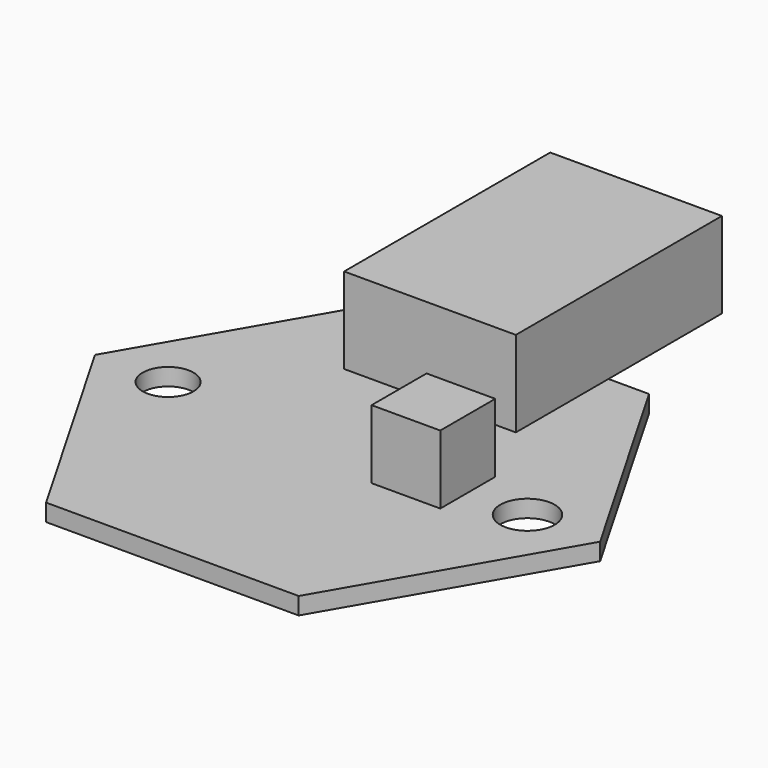
from build123d import *

# Parameters (mm, degrees)
SKETCH_R     = 1.480824
SKETCH_R_2   = 1.582629
PAD_DEPTH    = 1
BOX_W        = 10
BOX_H        = 15
BOX_DEPTH    = 5
BOX001_W     = 4
BOX001_H     = 4
BOX001_DEPTH = 4


with BuildPart() as body_hexagon:
    # Sketch → Pad (new body)
    with BuildSketch(Plane.XY):
        Polygon((7.363772, 12.739325), (-7.350693, 12.746876), (-14.714465, 0.007551), (-7.363772, -12.739325), (7.350693, -12.746876), (14.714465, -0.007551), align=None)
        with Locations((-10.450803, 0)):
            Circle(SKETCH_R, mode=Mode.SUBTRACT)
        with Locations((10.478189, 0)):
            Circle(SKETCH_R_2, mode=Mode.SUBTRACT)
    extrude(amount=PAD_DEPTH)


with BuildPart() as vcc:
    # Box → Box (new body)
    with BuildSketch(Plane(origin=(-5, 6, 1), x_dir=(1, 0, 0), z_dir=(0, 0, 1))):
        with Locations((5, 7.5)):
            Rectangle(BOX_W, BOX_H)
    extrude(amount=BOX_DEPTH)


with BuildPart() as obj1:
    # Box001 → Box001 (new body)
    with BuildSketch(Plane(origin=(3, -2, 1), x_dir=(1, 0, 0), z_dir=(0, 0, 1))):
        with Locations((2, 2)):
            Rectangle(BOX001_W, BOX001_H)
    extrude(amount=BOX001_DEPTH)


solid = Compound([body_hexagon.part, vcc.part, obj1.part])
